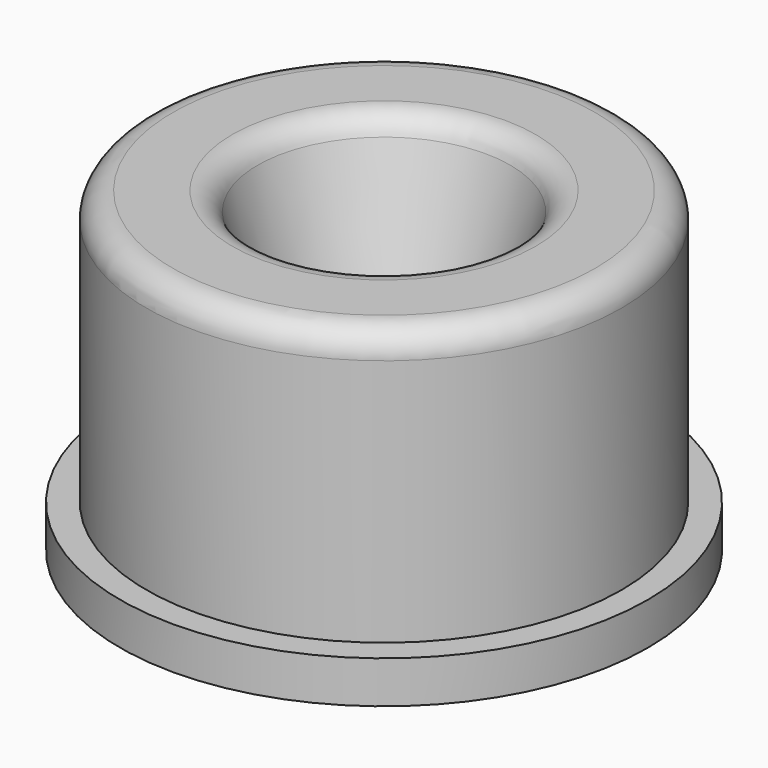
from build123d import *

# Parameters (mm, degrees)
F0_R     = 14.2875
F1_DEPTH = 19.05
F2_R     = 15.875
F3_DEPTH = 2.54
F6_R     = 1.5875


with BuildPart() as f1:
    # F0 (on Top) → F1 (new body)
    with BuildSketch(Plane.XY):
        Circle(F0_R)
    extrude(amount=F1_DEPTH)

    # F2 (on face) → F3 (join)
    with BuildSketch(Plane(origin=(0, 0, 0), x_dir=(1, 0, 0), z_dir=(0, 0, -1))):
        Circle(F2_R)
    extrude(amount=-F3_DEPTH)

    # F4 (on Front) → F5 (revolve, cut)
    with BuildSketch(Plane.XZ):
        Polygon((0, 19.05), (0, 0), (5.08, 0), (5.08, 9.525), (7.9375, 19.05), align=None)
    revolve(axis=Axis((0, 0, 9.525), (0, 0, 1)), mode=Mode.SUBTRACT)

    # F6
    f6_edges = [f1.edges().sort_by_distance(p)[0] for p in [
        (-14.2875, 0, 19.05),
        (-7.9375, 0, 19.05),
        (-5.08, 0, 0),
    ]]
    fillet(f6_edges, radius=F6_R)


solid = f1.part
